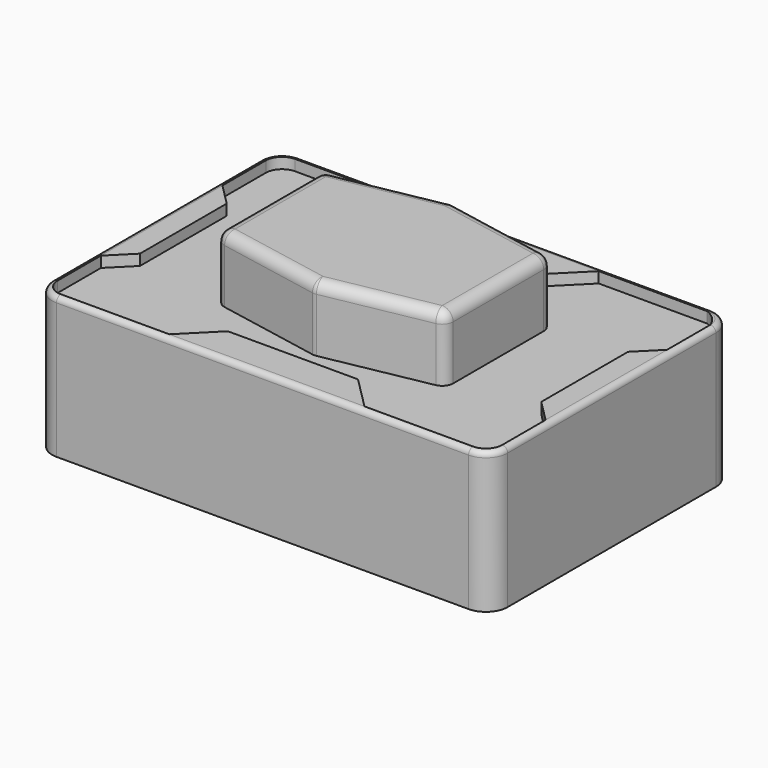
from build123d import *

# Parameters (mm, degrees)
PAD001_DEPTH = 1.3
FILLET_R     = 0.05
POCKET_DEPTH = 0.1
PAD003_DEPTH = 0.6
FILLET002_R  = 0.1


with BuildPart() as part:
    # Sketch001 (on Face14 of Binder) → Pad001 (new body)
    with BuildSketch(Plane.XY.offset(0.1)):
        with BuildLine():
            ThreePointArc((-1.9, 1.4), (-2.041421, 1.341421), (-2.1, 1.2))
            Line((-2.1, -1.2), (-2.1, 1.2))
            ThreePointArc((-2.1, -1.2), (-2.041421, -1.341421), (-1.9, -1.4))
            Line((1.9, -1.4), (-1.9, -1.4))
            ThreePointArc((1.9, -1.4), (2.041421, -1.341421), (2.1, -1.2))
            Line((2.1, 1.2), (2.1, -1.2))
            ThreePointArc((2.1, 1.2), (2.041421, 1.341421), (1.9, 1.4))
            Line((-1.9, 1.4), (1.9, 1.4))
        make_face()
    extrude(amount=PAD001_DEPTH)

    # Fillet
    fillet_edges = [part.edges().sort_by_distance(p)[0] for p in [
        (0, -1.4, 1.4),
    ]]
    fillet(fillet_edges, radius=FILLET_R)

    # Sketch002 (on Face9 of Fillet) → Pocket (cut)
    with BuildSketch(Plane.XY.offset(1.4)):
        with BuildLine():
            Line((-1.9, 1.35), (-0.9, 1.35))
            Line((-0.9, 1.35), (-0.6, 1.05))
            Line((0.6, 1.05), (-0.6, 1.05))
            Line((0.9, 1.35), (0.6, 1.05))
            Line((1.9, 1.35), (0.9, 1.35))
            ThreePointArc((2.05, 1.2), (1.991264, 1.291264), (1.9, 1.35))
            Line((2.05, 1.2), (2.05, 0.7))
            Line((1.85, 0.5), (2.05, 0.7))
            Line((1.85, 0.5), (1.85, -0.5))
            Line((1.85, -0.5), (2.05, -0.7))
            Line((2.05, -1.2), (2.05, -0.7))
            ThreePointArc((1.9, -1.35), (2.006066, -1.306066), (2.05, -1.2))
            Line((1.9, -1.35), (0.9, -1.35))
            Line((0.6, -1.05), (0.9, -1.35))
            Line((-0.6, -1.05), (0.6, -1.05))
            Line((-0.9, -1.35), (-0.6, -1.05))
            Line((-1.9, -1.35), (-0.9, -1.35))
            ThreePointArc((-2.05, -1.2), (-2.006066, -1.306066), (-1.9, -1.35))
            Line((-2.05, -1.2), (-2.05, -0.7))
            Line((-2.05, -0.7), (-1.85, -0.5))
            Line((-1.85, 0.5), (-1.85, -0.5))
            Line((-2.05, 0.7), (-1.85, 0.5))
            Line((-2.05, 1.2), (-2.05, 0.7))
            ThreePointArc((-1.9, 1.35), (-2.006066, 1.306066), (-2.05, 1.2))
        make_face()
    extrude(amount=-POCKET_DEPTH, mode=Mode.SUBTRACT)

    # Sketch004 (on Face22 of Pocket) → Pad003 (join)
    with BuildSketch(Plane.XY.offset(1.3)):
        Polygon((-1.055, 0.605), (-1.055, -0.605), (0, -0.805), (1.055, -0.605), (1.055, 0.605), (0, 0.805), align=None)
    extrude(amount=PAD003_DEPTH)

    # Fillet002
    fillet002_edges = [part.edges().sort_by_distance(p)[0] for p in [
        (-1.055, 0.605, 1.6),
        (-1.055, 0, 1.9),
        (-0.5275, 0.705, 1.9),
        (0, 0.805, 1.6),
        (0.5275, 0.705, 1.9),
        (1.055, 0.605, 1.6),
        (1.055, 0, 1.9),
        (1.055, -0.605, 1.6),
        (-0.5275, -0.705, 1.9),
        (0.5275, -0.705, 1.9),
        (0, -0.805, 1.6),
        (-1.055, -0.605, 1.6),
    ]]
    fillet(fillet002_edges, radius=FILLET002_R)


solid = part.part
